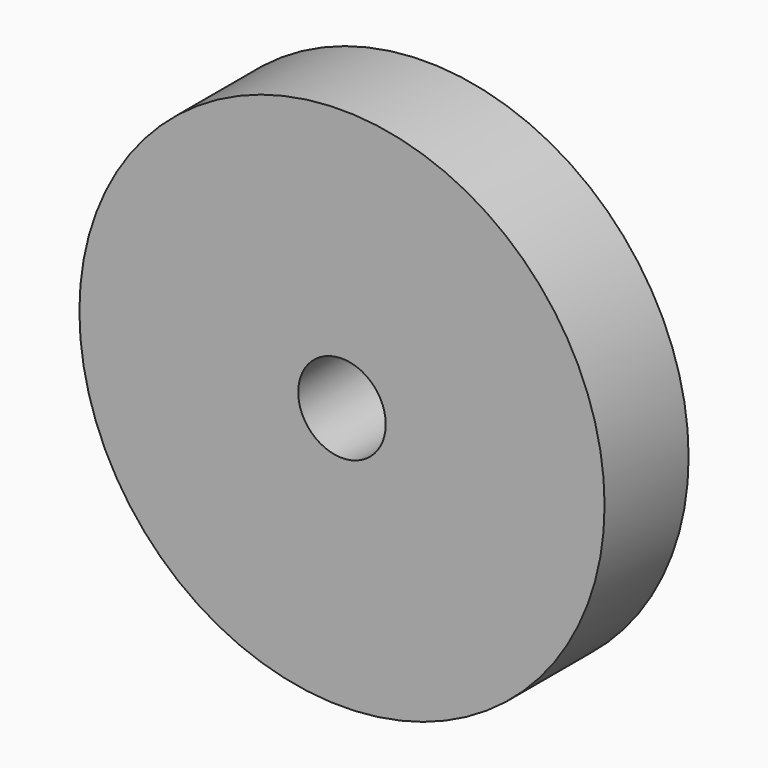
from build123d import *

# Parameters (mm, degrees)
F0_R     = 5.875
F0_R_2   = 2.5
F1_DEPTH = 11.9
F0_R_3   = 15
F2_DEPTH = 6


with BuildPart() as f1:
    # F0 (on Front) → F1 (new body)
    with BuildSketch(Plane.XZ):
        Circle(F0_R)
        Circle(F0_R_2, mode=Mode.SUBTRACT)
    extrude(amount=-F1_DEPTH)

    # F0 (on Front) → F2 (join)
    with BuildSketch(Plane.XZ):
        Circle(F0_R_3)
        Circle(F0_R, mode=Mode.SUBTRACT)
    extrude(amount=-F2_DEPTH)


solid = f1.part
